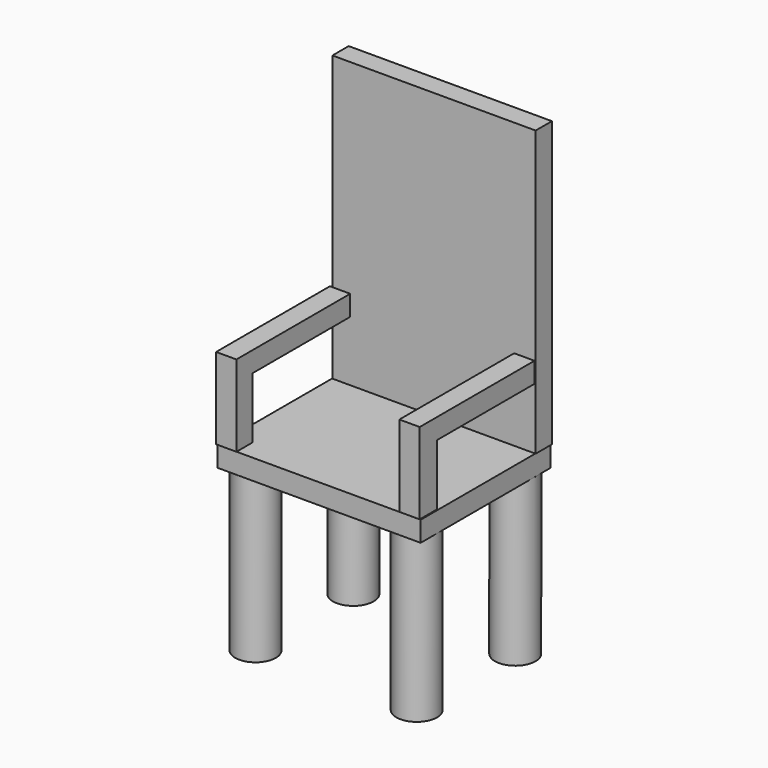
from build123d import *

# Parameters (mm, degrees)
F1_R      = 5
F2_DEPTH  = 40
F0_W      = 50
F0_H      = 40
F3_DEPTH  = 5
F5_W      = 50
F5_H      = 70
F6_DEPTH  = 5
F9_W      = 40
F9_H      = 20
F10_DEPTH = 5
F11_W     = 30
F11_H     = 15
F12_DEPTH = 5
F13_W     = 35
F13_H     = 20
F14_DEPTH = 5
F15_W     = 30
F15_H     = 15
F16_DEPTH = 5


with BuildPart() as f2:
    # F1 (on Top) → F2 (new body)
    with BuildSketch(Plane.XY):
        with Locations((-19.828461, 15.317721)):
            Circle(F1_R)
        with Locations((-19.828461, -14.753879)):
            Circle(F1_R)
        with Locations((20.016409, 15.317721)):
            Circle(F1_R)
        with Locations((19.828461, -14.753879)):
            Circle(F1_R)
    extrude(amount=-F2_DEPTH)

    # F0 (on Top) → F3 (join)
    with BuildSketch(Plane.XY):
        Rectangle(F0_W, F0_H)
    extrude(amount=F3_DEPTH)


with BuildPart() as f6:
    # F5 (on offset) → F6 (new body)
    with BuildSketch(Plane.XZ.offset(-20)):
        with Locations((0.284906, 40.168556)):
            Rectangle(F5_W, F5_H)
    extrude(amount=F6_DEPTH)

    # F9 (on offset) → F10 (join)
    with BuildSketch(Plane.YZ.offset(25)):
        with Locations((-0.30131, 15.209289)):
            Rectangle(F9_W, F9_H)
    extrude(amount=-F10_DEPTH)

    # F11 (on face) → F12 (cut)
    with BuildSketch(Plane.YZ.offset(25)):
        with Locations((0, 12.709289)):
            Rectangle(F11_W, F11_H)
    extrude(amount=-F12_DEPTH, mode=Mode.SUBTRACT)


with BuildPart() as f14:
    # F13 (on offset) → F14 (new body)
    with BuildSketch(Plane.YZ.offset(-25)):
        with Locations((-2.915219, 15.258641)):
            Rectangle(F13_W, F13_H)
    extrude(amount=F14_DEPTH)

    # F15 (on face) → F16 (cut)
    with BuildSketch(Plane(origin=(-25, 0, 0), x_dir=(0, -1, 0), z_dir=(-1, 0, 0))):
        with Locations((0.415219, 12.758641)):
            Rectangle(F15_W, F15_H)
    extrude(amount=-F16_DEPTH, mode=Mode.SUBTRACT)


solid = Compound([f2.part, f6.part, f14.part])
